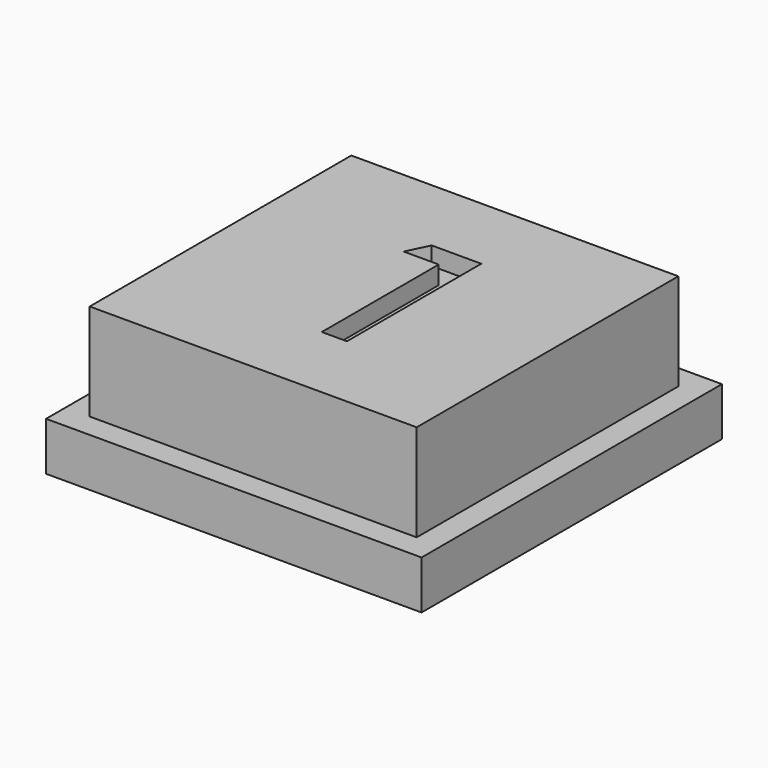
from build123d import *

# Parameters (mm, degrees)
F0_W     = 15.5
F0_H     = 15.5
F0_W_2   = 13.5
F0_H_2   = 13.5
F1_DEPTH = 2
F2_DEPTH = 6
F3_DEPTH = 5.25


with BuildPart() as f1:
    # F0 (on Top) → F1 (new body)
    with BuildSketch(Plane.XY):
        Rectangle(F0_W, F0_H)
        Rectangle(F0_W_2, F0_H_2, mode=Mode.SUBTRACT)
    extrude(amount=F1_DEPTH)

    # F0 (on Top) → F2 (join)
    with BuildSketch(Plane.XY):
        Rectangle(F0_W_2, F0_H_2)
        Polygon((1.24317, -3.46653), (0.205601, -3.46653), (0.205601, 2.567623), (-1.243169, 2.567623), (-0.803279, 3.46653), (1.24317, 3.46653), align=None, mode=Mode.SUBTRACT)
    extrude(amount=F2_DEPTH)

    # F0 (on Top) → F3 (join)
    with BuildSketch(Plane.XY):
        Polygon((0.205601, 2.567623), (0.205601, -3.46653), (1.24317, -3.46653), (1.24317, 3.46653), (-0.803279, 3.46653), (-1.243169, 2.567623), align=None)
    extrude(amount=F3_DEPTH)


solid = f1.part
